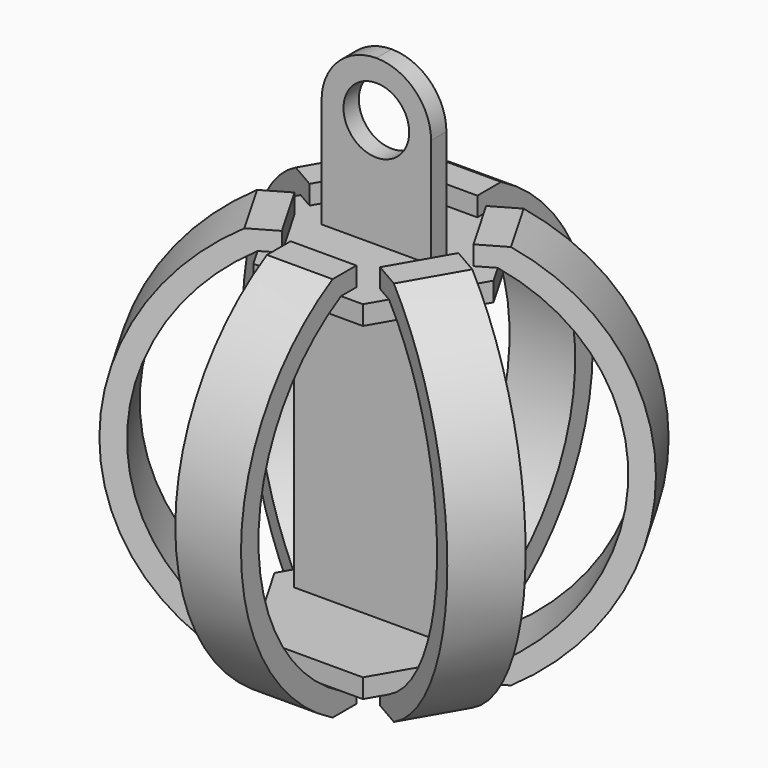
from build123d import *

# Parameters (mm, degrees)
PAD_DEPTH       = 1.75
SKETCH001_W     = 10
SKETCH001_H     = 1.75
POCKET_DEPTH    = 1.75
ARRAY_Z_COUNT   = 2
ARRAY_Z_PITCH   = 30
PAD001_DEPTH    = 0.875
SKETCH003_R     = 3
POCKET001_DEPTH = 1.751
PAD002_DEPTH    = 3
ARRAY001_COUNT  = 6


with BuildPart() as end_caps:
    # Sketch → Pad (new body)
    with BuildSketch(Plane.XY):
        Polygon((5, -8.660254), (10, 0), (5, 8.660254), (-5, 8.660254), (-10, 0), (-5, -8.660254), align=None)
    extrude(amount=PAD_DEPTH)

    # Sketch001 (on Face8 of Pad) → Pocket (cut)
    with BuildSketch(Plane.XY.offset(1.75)):
        Rectangle(SKETCH001_W, SKETCH001_H)
    extrude(amount=-POCKET_DEPTH, mode=Mode.SUBTRACT)

    # Array Z: End_Caps ×2


with BuildPart() as end_caps_1:
    add(end_caps.part)
    with Locations(*[(0, 0, i * ARRAY_Z_PITCH) for i in range(1, ARRAY_Z_COUNT)]):
        add(end_caps.part)


with BuildPart() as centre_body:
    # Sketch002 → Pad001 (new body, symmetric)
    with BuildSketch(Plane.XZ):
        with BuildLine():
            Line((-5, 0), (5, 0))
            Line((5, 0), (5, 1.75))
            Line((5, 1.75), (7.5, 1.75))
            Line((7.5, 1.75), (7.5, 30))
            Line((7.5, 30), (5, 30))
            Line((5, 30), (5, 41.75))
            ThreePointArc((5, 41.75), (3.535534, 45.285534), (0, 46.75))
            ThreePointArc((0, 46.75), (-3.535534, 45.285534), (-5, 41.75))
            Line((-5, 41.75), (-5, 30))
            Line((-5, 30), (-7.5, 30))
            Line((-7.5, 30), (-7.5, 1.75))
            Line((-7.5, 1.75), (-5, 1.75))
            Line((-5, 1.75), (-5, 0))
        make_face()
    extrude(amount=PAD001_DEPTH, both=True)

    # Sketch003 (on Face15 of Pad001) → Pocket001 (cut, through all)
    with BuildSketch(Plane.XZ.offset(0.875)):
        with Locations((0, 41.75)):
            Circle(SKETCH003_R)
    extrude(amount=-POCKET001_DEPTH, mode=Mode.SUBTRACT)


with BuildPart() as array001:
    # Sketch004 → Pad002 (new body, symmetric)
    with BuildSketch(Plane.YZ):
        with BuildLine():
            ThreePointArc((-8.660254, 31.75), (-18.083573, 15.875), (-8.660254, 0))
            Line((-8.660254, 0), (-6.910254, 0))
            Line((-6.910254, 0), (-6.910254, -1.75))
            Line((-9.614928, -1.75), (-6.910254, -1.75))
            ThreePointArc((-9.614928, 33.5), (-20.077038, 15.875), (-9.614928, -1.75))
            Line((-6.910254, 33.5), (-9.614928, 33.5))
            Line((-6.910254, 31.75), (-6.910254, 33.5))
            Line((-8.660254, 31.75), (-6.910254, 31.75))
        make_face()
    extrude(amount=PAD002_DEPTH, both=True)

    # Array001: Array001 ×6 about axis
    array001_axis = Axis((0, 0, 0), (0, 0, 1))


with BuildPart() as array001_1:
    add(array001.part)
    for i in range(1, ARRAY001_COUNT):
        add(array001.part.rotate(array001_axis, i * 360 / ARRAY001_COUNT))


solid = Compound([end_caps_1.part, centre_body.part, array001_1.part])
